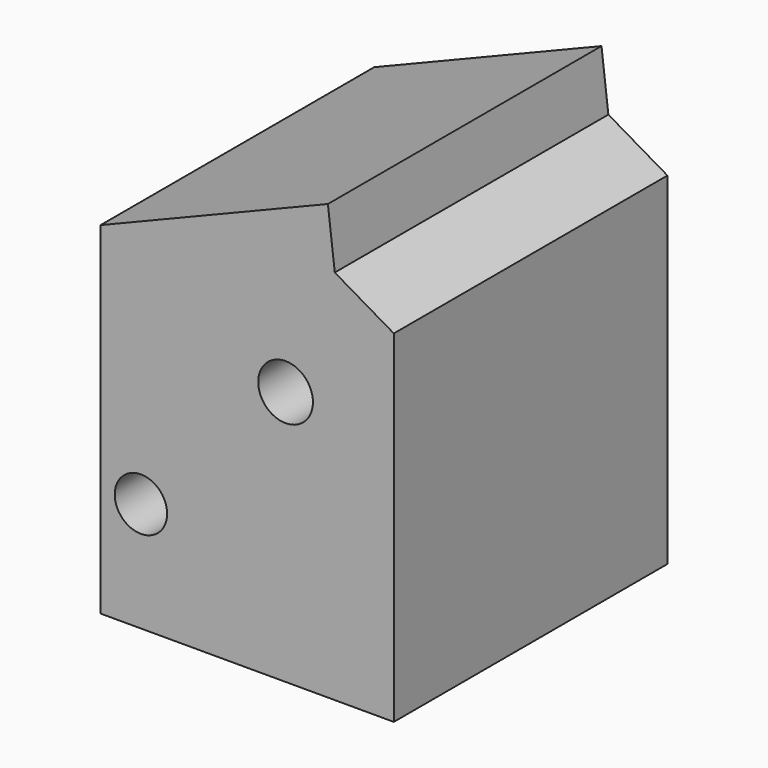
from build123d import *

# Parameters (mm, degrees)
F0_W     = 85.746526
F0_H     = 100
F0_R     = 7.66167
F0_R_2   = 8
F1_DEPTH = 100


with BuildPart() as f1:
    # F0 (on Front) → F1 (new body)
    with BuildSketch(Plane.XZ):
        Rectangle(F0_W, F0_H)
        with Locations((-31.075926, -17.983756)):
            Circle(F0_R, mode=Mode.SUBTRACT)
        with Locations((11.22186, 24.60177)):
            Circle(F0_R_2, mode=Mode.SUBTRACT)
        Polygon((-42.873263, 50), (42.873263, 50), (25.608866, 60.070896), (23.594683, 77.047562), align=None)
    extrude(amount=F1_DEPTH)


solid = f1.part
